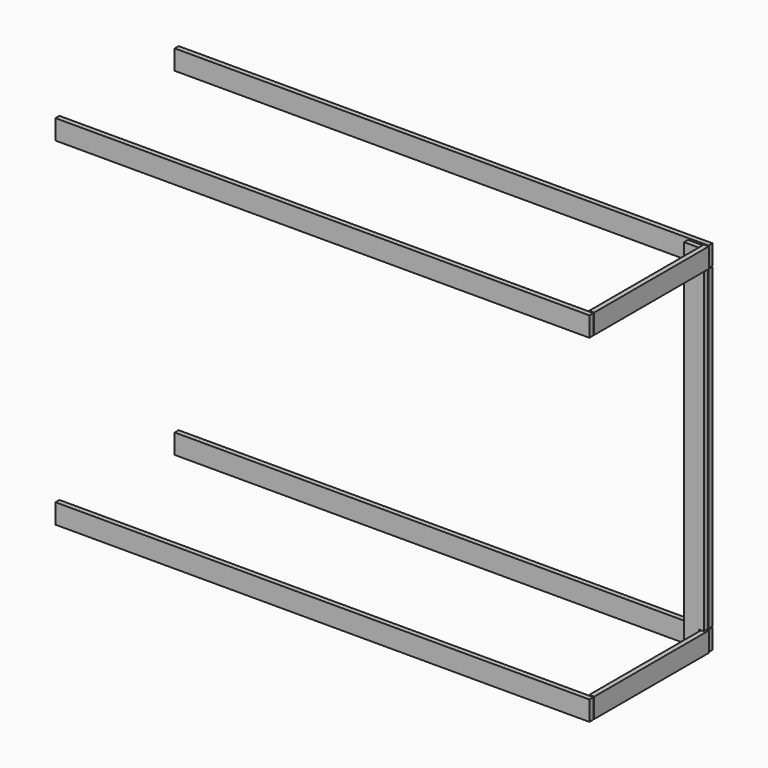
from build123d import *

# Parameters (mm, degrees)
F0_W      = 50.8
F0_H      = 914.4
F1_DEPTH  = 12.7
F3_W      = 50.8
F3_H      = 812.8
F4_DEPTH  = 12.7
F6_W      = 1371.6
F6_H      = 12.7
F7_DEPTH  = 50.8
F9_W      = 1371.6
F9_H      = 12.7
F10_DEPTH = 50.8
F11_W     = 12.7
F11_H     = 50.8
F12_DEPTH = 12.7
F14_W     = 368.3
F14_H     = 50.8
F15_DEPTH = 12.7
F16_W     = 12.7
F16_H     = 50.8
F17_DEPTH = 12.7
F19_W     = 368.3
F19_H     = 50.8
F20_DEPTH = 12.7
F22_W     = 1371.6
F22_H     = 50.8
F23_DEPTH = 12.7
F25_W     = 1371.6
F25_H     = 50.8
F26_DEPTH = 12.7


with BuildPart() as f1:
    # F0 (on Front) → F1 (new body)
    with BuildSketch(Plane.XZ):
        with Locations((25.4, 457.2)):
            Rectangle(F0_W, F0_H)
    extrude(amount=F1_DEPTH)

    # F11 (on face) → F12 (cut)
    with BuildSketch(Plane.XZ.offset(12.7)):
        with Locations((44.45, 889)):
            Rectangle(F11_W, F11_H)
    extrude(amount=-F12_DEPTH, mode=Mode.SUBTRACT)

    # F16 (on face) → F17 (cut)
    with BuildSketch(Plane.XZ.offset(12.7)):
        with Locations((44.45, 25.4)):
            Rectangle(F16_W, F16_H)
    extrude(amount=-F17_DEPTH, mode=Mode.SUBTRACT)


with BuildPart() as f4:
    # F3 (on offset) → F4 (new body)
    with BuildSketch(Plane(origin=(0, 2.54, 0), x_dir=(-1, 0, 0), z_dir=(0, 1, 0))):
        with Locations((-25.4, 457.2)):
            Rectangle(F3_W, F3_H)
    extrude(amount=F4_DEPTH)


with BuildPart() as f7:
    # F6 (on offset) → F7 (new body)
    with BuildSketch(Plane(origin=(0, 0, 48.26), x_dir=(1, 0, 0), z_dir=(0, 0, -1))):
        with Locations((-635, -8.89)):
            Rectangle(F6_W, F6_H)
    extrude(amount=F7_DEPTH)


with BuildPart() as f10:
    # F9 (on offset) → F10 (new body)
    with BuildSketch(Plane.XY.offset(866.14)):
        with Locations((-635, 8.89)):
            Rectangle(F9_W, F9_H)
    extrude(amount=F10_DEPTH)


with BuildPart() as f15:
    # F14 (on offset) → F15 (new body)
    with BuildSketch(Plane.YZ.offset(40.64)):
        with Locations((-184.15, 891.54)):
            Rectangle(F14_W, F14_H)
    extrude(amount=F15_DEPTH)


with BuildPart() as f20:
    # F19 (on offset) → F20 (new body)
    with BuildSketch(Plane.YZ.offset(40.64)):
        with Locations((-184.15, 22.86)):
            Rectangle(F19_W, F19_H)
    extrude(amount=F20_DEPTH)


with BuildPart() as f23:
    # F22 (on offset) → F23 (new body)
    with BuildSketch(Plane.XZ.offset(370.84)):
        with Locations((-632.46, 891.54)):
            Rectangle(F22_W, F22_H)
    extrude(amount=F23_DEPTH)


with BuildPart() as f26:
    # F25 (on offset) → F26 (new body)
    with BuildSketch(Plane.XZ.offset(370.84)):
        with Locations((-632.46, 22.86)):
            Rectangle(F25_W, F25_H)
    extrude(amount=F26_DEPTH)


solid = Compound([f1.part, f4.part, f7.part, f10.part, f15.part, f20.part, f23.part, f26.part])
